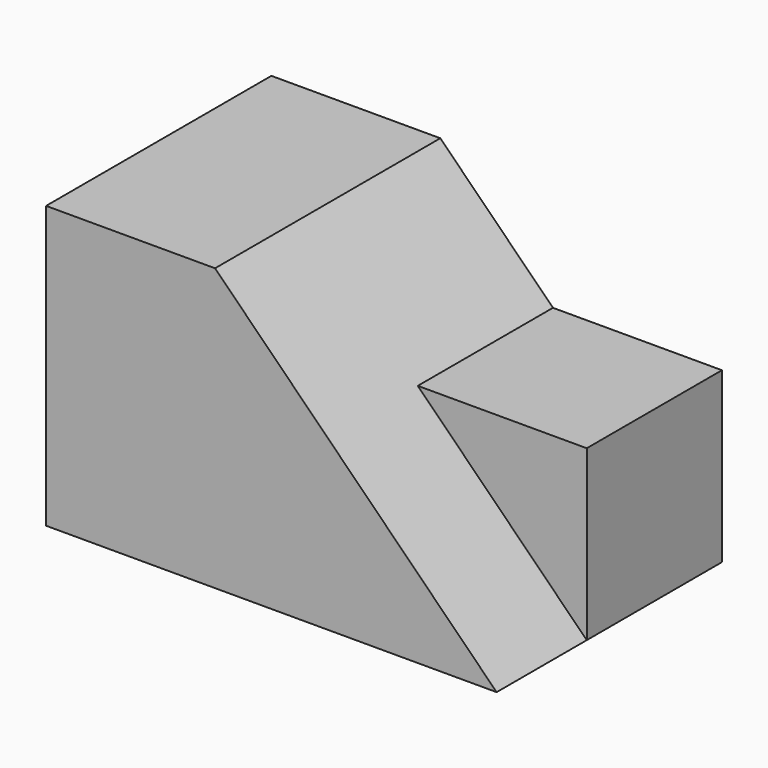
from build123d import *

# Parameters (mm, degrees)
F1_DEPTH = 31.75
F3_DEPTH = 19.05


with BuildPart() as f1:
    # F0 (on Front) → F1 (new body)
    with BuildSketch(Plane.XZ):
        Polygon((0, 31.75), (0, 0), (50.8, 0), (19.05, 31.75), align=None)
    extrude(amount=-F1_DEPTH)


with BuildPart() as f3:
    # F2 (on face) → F3 (new body)
    with BuildSketch(Plane(origin=(0, 31.75, 0), x_dir=(-1, 0, 0), z_dir=(0, 1, 0))):
        Polygon((-50.8, 19.05), (-50.8, 0), (-31.75, 19.05), align=None)
    extrude(amount=-F3_DEPTH)


solid = Compound([f1.part, f3.part])
